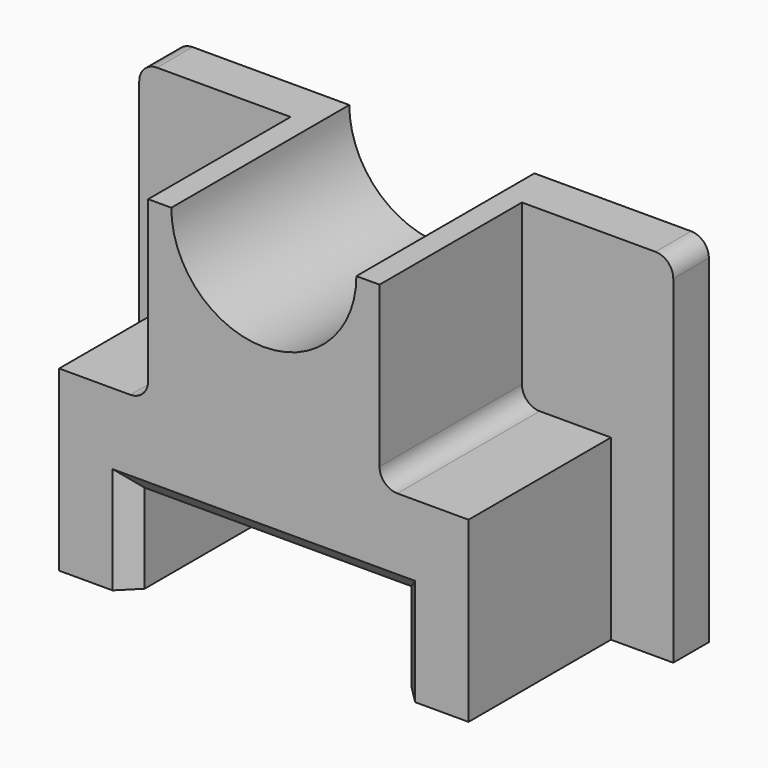
from build123d import *

# Parameters (mm, degrees)
F0_W     = 152.4
F0_H     = 101.6
F1_DEPTH = 12.7
F3_DEPTH = 50.8
F4_R     = 5.08
F5_R     = 5.08
F6_R     = 5.08
F7_R     = 5.08
F8_R     = 26.410315
F9_DEPTH = 63.501
F10_SIZE = 5.08


with BuildPart() as f1:
    # F0 (on Front) → F1 (new body)
    with BuildSketch(Plane.XZ):
        Rectangle(F0_W, F0_H)
    extrude(amount=F1_DEPTH)

    # F2 (on face) → F3 (join)
    with BuildSketch(Plane.XZ.offset(12.7)):
        Polygon((33.02, 50.8), (-33.02, 50.8), (-33.02, 0), (-58.42, 0), (-58.42, -50.8), (-38.1, -50.8), (-38.1, -25.4), (38.1, -25.4), (38.1, -50.8), (58.42, -50.8), (58.42, 0), (33.02, 0), align=None)
    extrude(amount=F3_DEPTH)

    # F4
    f4_edges = [f1.edges().sort_by_distance(p)[0] for p in [
        (76.2, -6.35, 50.8),
    ]]
    fillet(f4_edges, radius=F4_R)

    # F5
    f5_edges = [f1.edges().sort_by_distance(p)[0] for p in [
        (-76.2, -6.35, 50.8),
    ]]
    fillet(f5_edges, radius=F5_R)

    # F6
    f6_edges = [f1.edges().sort_by_distance(p)[0] for p in [
        (33.02, -38.1, 0),
    ]]
    fillet(f6_edges, radius=F6_R)

    # F7
    f7_edges = [f1.edges().sort_by_distance(p)[0] for p in [
        (-33.02, -38.1, 0),
    ]]
    fillet(f7_edges, radius=F7_R)

    # F8 (on Front) → F9 (cut, through all)
    with BuildSketch(Plane.XZ):
        with Locations((0, 50.8)):
            Circle(F8_R)
    extrude(amount=F9_DEPTH, mode=Mode.SUBTRACT)

    # F10
    f10_edges = [f1.edges().sort_by_distance(p)[0] for p in [
        (0, -63.5, -25.4),
        (-38.1, -63.5, -38.1),
        (38.1, -63.5, -38.1),
    ]]
    chamfer(f10_edges, length=F10_SIZE)


solid = f1.part
